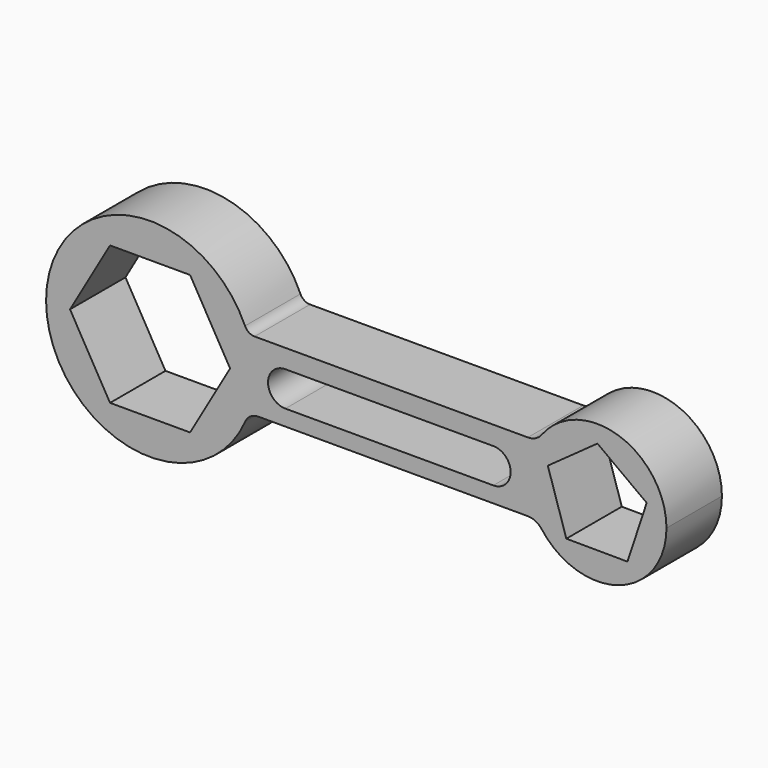
from build123d import *

# Parameters (mm, degrees)
F1_DEPTH = 508


with BuildPart() as f1:
    # F0 (on Front) → F1 (new body)
    with BuildSketch(Plane.XZ):
        with BuildLine():
            ThreePointArc((-3968.237199, 310.245178), (-3918.906945, 158.595676), (-3902.219907, 0))
            ThreePointArc((-3902.219907, 0), (-3918.361418, -156.009984), (-3966.102099, -305.410422))
            ThreePointArc((-3966.102099, -305.410422), (-3927.789952, -260.10813), (-3870.930023, -243.165085))
            Line((-3870.930023, -243.165085), (-1895.619907, -243.165085))
            ThreePointArc((-1895.619907, -243.165085), (-1839.105599, -256.531011), (-1794.565934, -293.796724))
            ThreePointArc((-1794.565934, -293.796724), (-1895.661012, 11.138058), (-1793.59604, 315.749577))
            ThreePointArc((-1793.59604, 315.749577), (-1838.608566, 278.270506), (-1895.619907, 264.834915))
            Line((-1895.619907, 264.834915), (-3898.27722, 264.834915))
            ThreePointArc((-3898.27722, 264.834915), (-3939.98001, 277.182763), (-3968.237199, 310.245178))
        make_face()
        with BuildLine():
            ThreePointArc((-3672.559767, -127.0684), (-3799.593962, -2.948124), (-3678.454427, 126.9316))
            Line((-3678.454427, 126.9316), (-2154.591227, 126.9316))
            ThreePointArc((-2154.591227, 126.9316), (-2021.662371, 2.948124), (-2148.696566, -127.0684))
            Line((-2148.696566, -127.0684), (-3672.559767, -127.0684))
        make_face(mode=Mode.SUBTRACT)
        with BuildLine():
            ThreePointArc((-3966.102099, -305.410422), (-3918.361418, -156.009984), (-3902.219907, 0))
            ThreePointArc((-3902.219907, 0), (-3918.906945, 158.595676), (-3968.237199, 310.245178))
            ThreePointArc((-3968.237199, 310.245178), (-5426.215325, -2.642609), (-3966.102099, -305.410422))
        make_face()
        Polygon((-4230.534543, 264.834915), (-4077.632034, 0), (-4218.023461, -243.165085), (-4370.92597, -508), (-4957.513844, -508), (-5250.807781, 0), (-4957.513844, 508), (-4370.92597, 508), align=None, mode=Mode.SUBTRACT)
        with BuildLine():
            ThreePointArc((-879.661655, 10.329742), (-1226.65027, 492.138142), (-1793.59604, 315.749577))
            ThreePointArc((-1793.59604, 315.749577), (-1895.661012, 11.138058), (-1794.565934, -293.796724))
            ThreePointArc((-1794.565934, -293.796724), (-1227.417114, -471.734244), (-879.661655, 10.329742))
        make_face()
        Polygon((-1024.617689, 125.937205), (-1165.52567, -299.220916), (-1613.418032, -296.590548), (-1749.322755, 130.19323), (-1561.697043, 264.834915), (-1385.42413, 391.329742), align=None, mode=Mode.SUBTRACT)
    extrude(amount=F1_DEPTH)


solid = f1.part
